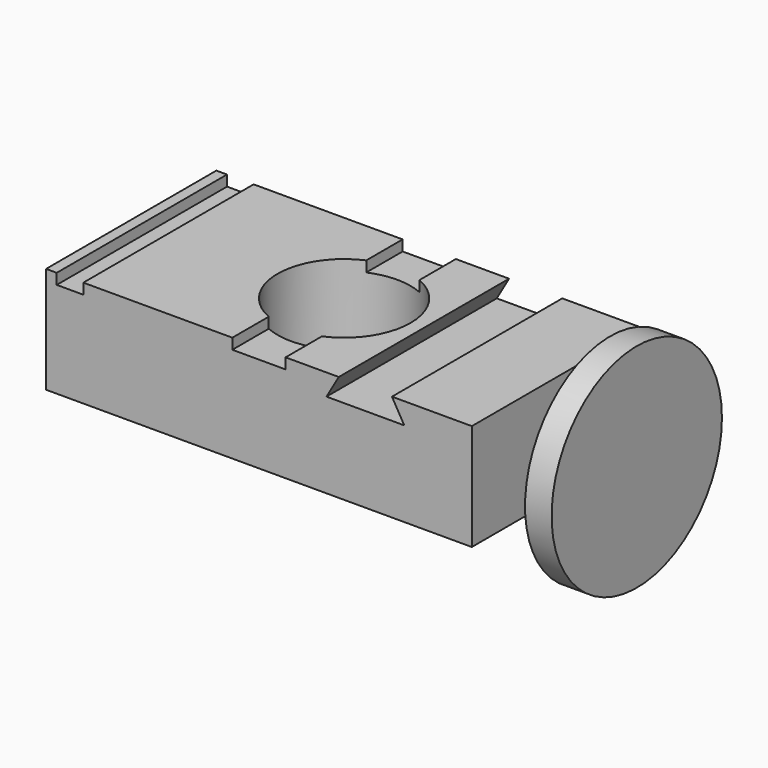
from build123d import *

# Parameters (mm, degrees)
F0_W     = 101.6
F0_H     = 50.8
F0_R     = 15.875
F1_DEPTH = 25.4
F2_W     = 6.35
F2_H     = 50.8
F3_DEPTH = 2.54
F5_DEPTH = 50.801
F6_R     = 4.7625
F7_DEPTH = 12.7
F8_R     = 25.4
F8_R_2   = 4.7625
F9_DEPTH = 6.35


with BuildPart() as f1:
    # F0 (on Top) → F1 (new body)
    with BuildSketch(Plane.XY):
        Rectangle(F0_W, F0_H)
        Circle(F0_R, mode=Mode.SUBTRACT)
    extrude(amount=F1_DEPTH)

    # F2 (on face) → F3 (cut)
    with BuildSketch(Plane.XY.offset(25.4)):
        with BuildLine():
            Line((6.35, 25.4), (-6.35, 25.4))
            Line((-6.35, 25.4), (-6.35, 14.5496778315))
            ThreePointArc((-6.35, 14.5496778315), (0, 15.875), (6.35, 14.5496778315))
            Line((6.35, 14.5496778315), (6.35, 25.4))
        make_face()
        with BuildLine():
            Line((-6.35, -14.5496778315), (-6.35, -25.4))
            Line((-6.35, -25.4), (6.35, -25.4))
            Line((6.35, -25.4), (6.35, -14.5496778315))
            ThreePointArc((6.35, -14.5496778315), (0, -15.875), (-6.35, -14.5496778315))
        make_face()
        with Locations((-45.085, 0)):
            Rectangle(F2_W, F2_H)
    extrude(amount=-F3_DEPTH, mode=Mode.SUBTRACT)

    # F4 (on face) → F5 (cut, through all)
    with BuildSketch(Plane.XZ.offset(25.4)):
        Polygon((31.75, 25.4), (19.05, 25.4), (16.1170606325, 20.32), (34.6829393675, 20.32), align=None)
    extrude(amount=-F5_DEPTH, mode=Mode.SUBTRACT)

    # F6 (on face) → F7 (join)
    with BuildSketch(Plane.YZ.offset(50.8)):
        with Locations((0, 12.7)):
            Circle(F6_R)
    extrude(amount=F7_DEPTH)

    # F8 (on face) → F9 (join)
    with BuildSketch(Plane.YZ.offset(63.5)):
        with Locations((0, 12.7)):
            Circle(F8_R)
        with Locations((0, 12.7)):
            Circle(F8_R_2, mode=Mode.SUBTRACT)
        with Locations((0, 12.7)):
            Circle(F8_R_2)
    extrude(amount=F9_DEPTH)


solid = f1.part
